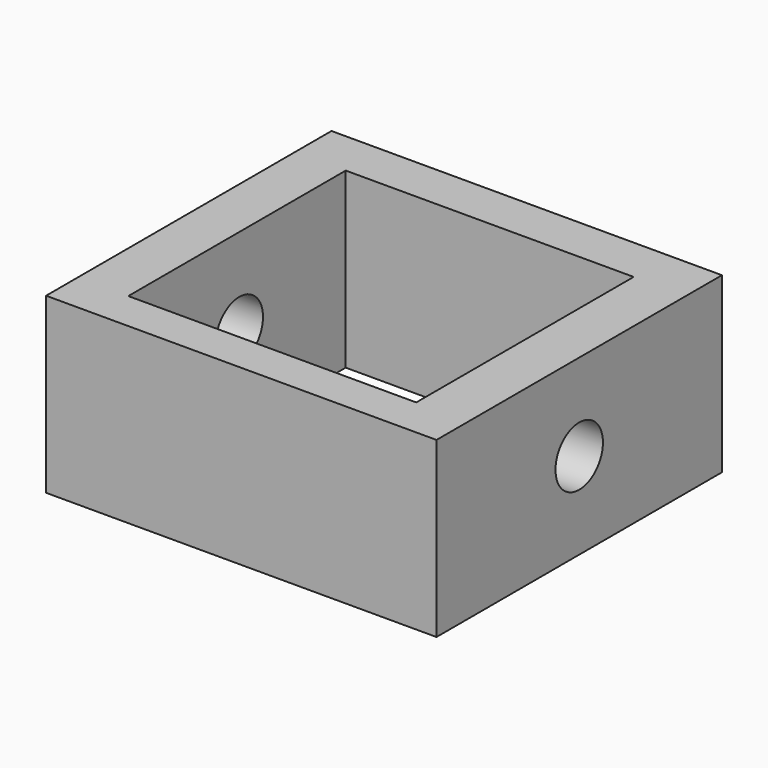
from build123d import *

# Parameters (mm, degrees)
F0_W     = 131.444588
F0_H     = 120.110088
F1_DEPTH = 58.42
F2_R     = 9.981672
F4_DEPTH = 157.226
F5_W     = 96.937245
F5_H     = 91.505859
F6_DEPTH = 129.032


with BuildPart() as f1:
    # F0 (on Top) → F1 (new body)
    with BuildSketch(Plane.XY):
        Rectangle(F0_W, F0_H)
    extrude(amount=F1_DEPTH)

    # F2 (on face) → F4 (cut, symmetric)
    with BuildSketch(Plane.YZ.offset(65.722294)):
        with Locations((0, 29.21)):
            Circle(F2_R)
    extrude(amount=F4_DEPTH, both=True, mode=Mode.SUBTRACT)

    # F5 (on Top) → F6 (cut, symmetric)
    with BuildSketch(Plane.XY):
        with Locations((-0.250232, -0.960483)):
            Rectangle(F5_W, F5_H)
    extrude(amount=F6_DEPTH, both=True, mode=Mode.SUBTRACT)


solid = f1.part
